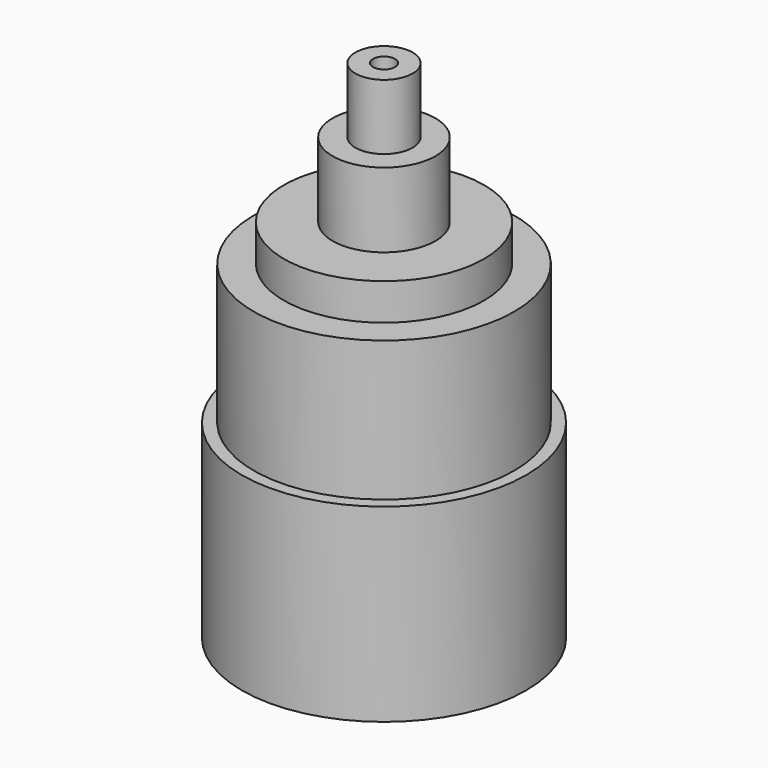
from build123d import *

# Parameters (mm, degrees)
F0_R     = 10.116147
F1_DEPTH = 179.07
F0_R_2   = 18.194512
F2_DEPTH = 155.956
F0_R_3   = 35.425969
F3_DEPTH = 129.54
F0_R_4   = 46.094292
F4_DEPTH = 116.586
F0_R_5   = 50.325177
F5_DEPTH = 67.056
F6_R     = 3.896404
F7_DEPTH = 411.226


with BuildPart() as f1:
    # F0 (on Top) → F1 (new body)
    with BuildSketch(Plane.XY):
        with Locations((-71.728565, 33.039652)):
            Circle(F0_R)
    extrude(amount=F1_DEPTH)

    # F0 (on Top) → F2 (join)
    with BuildSketch(Plane.XY):
        with Locations((-71.728565, 33.039652)):
            Circle(F0_R_2)
        with Locations((-71.728565, 33.039652)):
            Circle(F0_R, mode=Mode.SUBTRACT)
    extrude(amount=F2_DEPTH)

    # F0 (on Top) → F3 (join)
    with BuildSketch(Plane.XY):
        with Locations((-71.728565, 33.039652)):
            Circle(F0_R_3)
        with Locations((-71.728565, 33.039652)):
            Circle(F0_R_2, mode=Mode.SUBTRACT)
    extrude(amount=F3_DEPTH)

    # F0 (on Top) → F4 (join)
    with BuildSketch(Plane.XY):
        with Locations((-71.728565, 33.039652)):
            Circle(F0_R_4)
        with Locations((-71.728565, 33.039652)):
            Circle(F0_R_3, mode=Mode.SUBTRACT)
    extrude(amount=F4_DEPTH)

    # F0 (on Top) → F5 (join)
    with BuildSketch(Plane.XY):
        with Locations((-71.728565, 33.039652)):
            Circle(F0_R_5)
        with Locations((-71.728565, 33.039652)):
            Circle(F0_R_4, mode=Mode.SUBTRACT)
    extrude(amount=F5_DEPTH)

    # F6 (on face) → F7 (cut)
    with BuildSketch(Plane.XY.offset(179.07)):
        with Locations((-71.728565, 33.039652)):
            Circle(F6_R)
    extrude(amount=-F7_DEPTH, mode=Mode.SUBTRACT)


solid = f1.part
